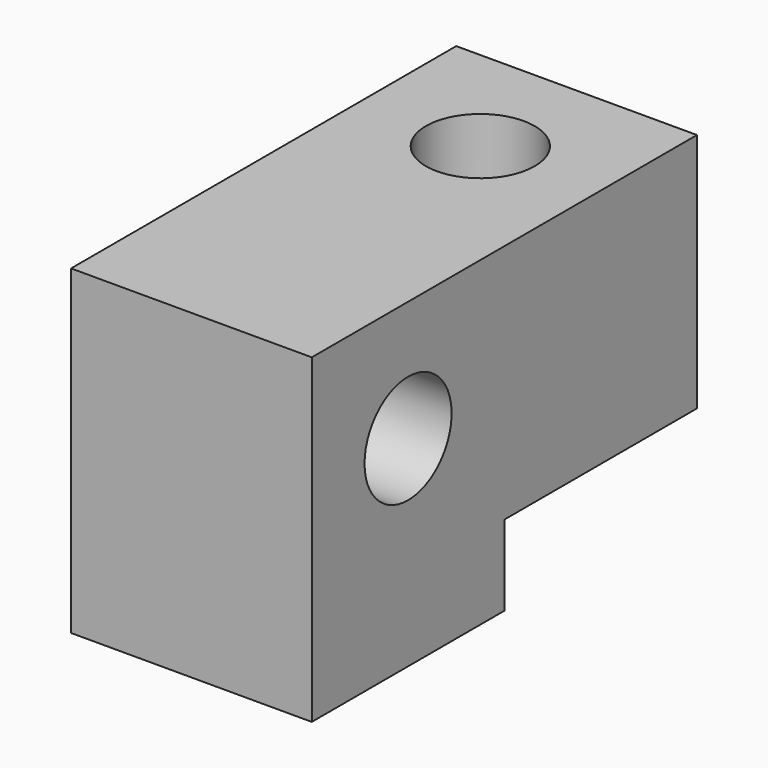
from build123d import *

# Parameters (mm, degrees)
F0_W      = 9.525
F0_H      = 19.05
F0_R      = 2.15265
F1_DEPTH  = 15.875
F2_W      = 9.525
F2_H      = 3.175
F3_DEPTH  = 9.525
F4_R      = 2.15265
F5_DEPTH  = 9.525
F3_FACE_W = 9.525
F3_FACE_H = 3.175
F6_DEPTH  = 9.525


with BuildPart() as f1:
    # F0 (on Top) → F1 (new body)
    with BuildSketch(Plane.XY):
        with Locations((4.7625, 9.525)):
            Rectangle(F0_W, F0_H)
        with Locations((4.7625, 14.2875)):
            Circle(F0_R, mode=Mode.SUBTRACT)
    extrude(amount=F1_DEPTH)

    # F2 (on face) → F3 (cut)
    with BuildSketch(Plane(origin=(0, 19.05, 0), x_dir=(-1, 0, 0), z_dir=(0, 1, 0))):
        with Locations((-4.7625, 1.5875)):
            Rectangle(F2_W, F2_H)
        with Locations((-4.7625, 14.2875)):
            Rectangle(F2_W, F2_H)
    extrude(amount=-F3_DEPTH, mode=Mode.SUBTRACT)

    # F4 (on face) → F5 (cut, through all)
    with BuildSketch(Plane(origin=(0, 0, 0), x_dir=(0, -1, 0), z_dir=(-1, 0, 0))):
        with Locations((-4.7625, 7.9375)):
            Circle(F4_R)
    extrude(amount=-F5_DEPTH, mode=Mode.SUBTRACT)

    # F3_face (on face) → F6 (cut, through all)
    with BuildSketch(Plane(origin=(4.7625, 9.525, 14.2875), x_dir=(-1, 0, 0), z_dir=(0, 1, 0))):
        Rectangle(F3_FACE_W, F3_FACE_H)
    extrude(amount=-F6_DEPTH, mode=Mode.SUBTRACT)


solid = f1.part
